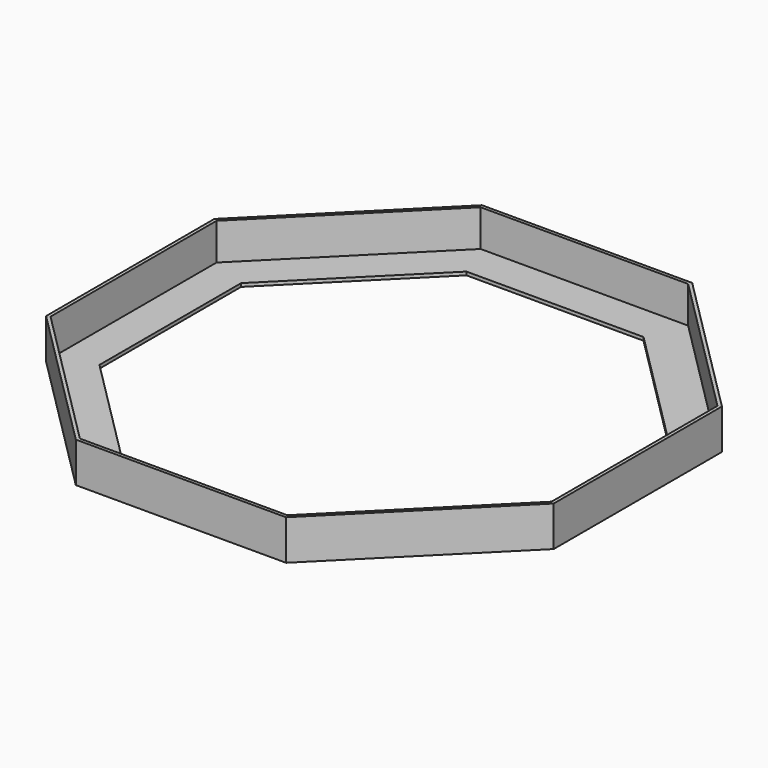
from build123d import *


with BuildPart() as f2:
    # F2: sweep along a path in F1
    with BuildLine(Plane.XY) as f2_path:
        Line((-241.3, 0), (-241.3, 99.9497326006))
        Line((-241.3, 99.9497326006), (-99.9497326006, 241.3))
        Line((-99.9497326006, 241.3), (99.9497326006, 241.3))
        Line((99.9497326006, 241.3), (241.3, 99.9497326006))
        Line((241.3, 99.9497326006), (241.3, -99.9497326006))
        Line((241.3, -99.9497326006), (99.9497326006, -241.3))
        Line((99.9497326006, -241.3), (-99.9497326006, -241.3))
        Line((-99.9497326006, -241.3), (-241.3, -99.9497326006))
        Line((-241.3, -99.9497326006), (-241.3, 0))
    # F0 (on Front) → F2 (sweep)
    with BuildSketch(Plane.XZ):
        Polygon((-238.125, 38.1), (-241.3, 38.1), (-241.3, 0), (-203.2, 0), (-203.2, 3.175), (-238.125, 3.175), align=None)
    sweep(path=f2_path.line, transition=Transition.RIGHT)


solid = f2.part
